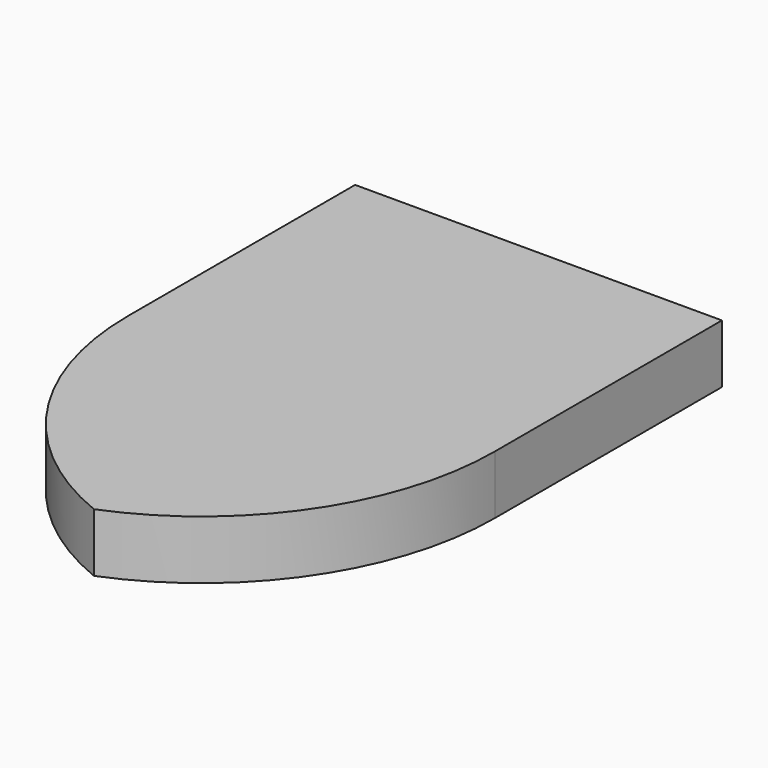
from build123d import *

# Parameters (mm, degrees)
F1_DEPTH = 8


with BuildPart() as f1:
    # F0 (on Top) → F1 (new body)
    with BuildSketch(Plane.XY):
        with BuildLine():
            Line((25, 38.661759), (-25, 38.661759))
            Line((-25, 38.661759), (-25, 0))
            ThreePointArc((-25, 0), (-18.166248, -22.36068), (0, -37.080992))
            ThreePointArc((0, -37.080992), (18.166248, -22.36068), (25, 0))
            Line((25, 0), (25, 38.661759))
        make_face()
    extrude(amount=F1_DEPTH)


solid = f1.part
